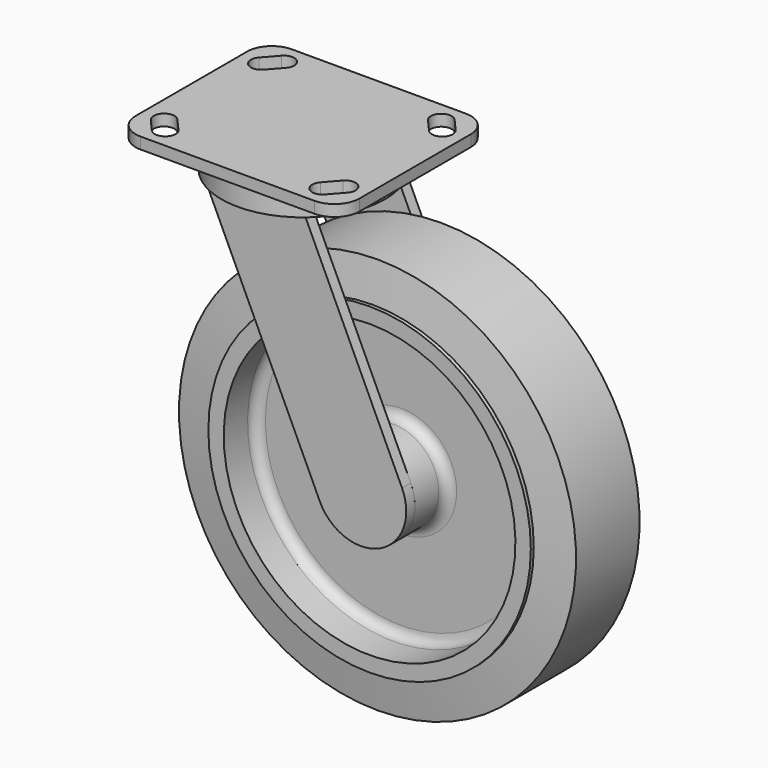
from build123d import *

# Parameters (mm, degrees)
F2_R      = 5.08
F6_DEPTH  = 5.588
F8_R      = 41.91
F9_DEPTH  = 13.97
F11_DEPTH = 5.842
F13_DEPTH = 5.842


with BuildPart() as f1:
    # F0 (on Right) → F1 (revolve)
    with BuildSketch(Plane.YZ):
        Polygon((0, 0), (25.4, 0), (25.4, 23.241), (5.08, 23.241), (5.08, 74.676), (25.4, 74.676), (25.4, 82.55), (23.5077, 82.55), (23.5077, 79.756), (0, 79.756), (-23.5077, 79.756), (-23.5077, 82.55), (-25.4, 82.55), (-25.4, 74.676), (-5.08, 74.676), (-5.08, 23.241), (-25.4, 23.241), (-25.4, 0), align=None)
    revolve(axis=Axis((0, -12.7, 0), (0, -1, 0)))

    # F2
    f2_edges = [f1.edges().sort_by_distance(p)[0] for p in [
        (0, 5.08, -23.241),
        (0, 5.08, -74.676),
        (0, -5.08, -74.676),
        (0, -5.08, -23.241),
    ]]
    fillet(f2_edges, radius=F2_R)


with BuildPart() as f4:
    # F3 (on Right) → F4 (revolve)
    with BuildSketch(Plane.YZ):
        Polygon((20.32, -101.648542), (23.5077, -79.756), (-23.5077, -79.756), (-20.32, -101.648542), align=None)
    revolve(axis=Axis((0, -15.502385, 0), (0, -1, 0)))


with BuildPart() as f6:
    # F5 (on face) → F6 (new body)
    with BuildSketch(Plane.XZ.offset(25.4)):
        with BuildLine():
            Line((-79.94933, 116.459), (-21.063499, -9.822071))
            ThreePointArc((-21.063499, -9.822071), (9.822071, -21.063499), (21.063499, 9.822071))
            Line((21.063499, 9.822071), (-28.662117, 116.459))
            Line((-28.662117, 116.459), (-79.94933, 116.459))
        make_face()
    extrude(amount=F6_DEPTH)



with BuildPart() as f7_1:
    # F7: instance of F6
    add(f6.part.mirror(Plane.XZ))


with BuildPart() as f6_1:
    add(f6.part)

    add(f7_1.part)  # F9 merges F7_1
    # F8 (on face) → F9 (join)
    with BuildSketch(Plane.XY.offset(116.459)):
        with Locations((-54.305724, 0)):
            Circle(F8_R)
    extrude(amount=F9_DEPTH)

    # F10 (on face) → F11 (join)
    with BuildSketch(Plane.XY.offset(130.429)):
        with BuildLine():
            Line((-98.882724, -48.387), (-9.728724, -48.387))
            ThreePointArc((-9.728724, -48.387), (-0.748467, -44.667256), (2.971276, -35.687))
            Line((2.971276, -35.687), (2.971276, 35.687))
            ThreePointArc((2.971276, 35.687), (-0.748467, 44.667256), (-9.728724, 48.387))
            Line((-9.728724, 48.387), (-98.882724, 48.387))
            ThreePointArc((-98.882724, 48.387), (-107.86298, 44.667256), (-111.582724, 35.687))
            Line((-111.582724, 35.687), (-111.582724, -35.687))
            ThreePointArc((-111.582724, -35.687), (-107.86298, -44.667256), (-98.882724, -48.387))
        make_face()
    extrude(amount=F11_DEPTH)

    # F12 (on face) → F13 (cut, through all)
    with BuildSketch(Plane.XY.offset(136.271)):
        with BuildLine():
            ThreePointArc((-104.660358, 34.645573), (-104.189814, 27.116848), (-96.661089, 27.587393))
            Line((-96.661089, 27.587393), (-90.61122, 34.44391))
            ThreePointArc((-90.61122, 34.44391), (-91.081764, 41.972635), (-98.610489, 41.50209))
            Line((-98.610489, 41.50209), (-104.660358, 34.645573))
        make_face()
        with BuildLine():
            Line((-18.000227, 34.44391), (-11.950358, 27.587393))
            ThreePointArc((-11.950358, 27.587393), (-4.421633, 27.116848), (-3.951089, 34.645573))
            Line((-3.951089, 34.645573), (-10.000958, 41.50209))
            ThreePointArc((-10.000958, 41.50209), (-17.529683, 41.972635), (-18.000227, 34.44391))
        make_face()
        with BuildLine():
            ThreePointArc((-3.951089, -34.645573), (-4.421633, -27.116848), (-11.950358, -27.587393))
            Line((-11.950358, -27.587393), (-18.000227, -34.44391))
            ThreePointArc((-18.000227, -34.44391), (-17.529683, -41.972635), (-10.000958, -41.50209))
            Line((-10.000958, -41.50209), (-3.951089, -34.645573))
        make_face()
        with BuildLine():
            Line((-90.61122, -34.44391), (-96.661089, -27.587393))
            ThreePointArc((-96.661089, -27.587393), (-104.189814, -27.116848), (-104.660358, -34.645573))
            Line((-104.660358, -34.645573), (-98.610489, -41.50209))
            ThreePointArc((-98.610489, -41.50209), (-91.081764, -41.972635), (-90.61122, -34.44391))
        make_face()
    extrude(amount=-F13_DEPTH, mode=Mode.SUBTRACT)


solid = Compound([f1.part, f4.part, f6_1.part])
